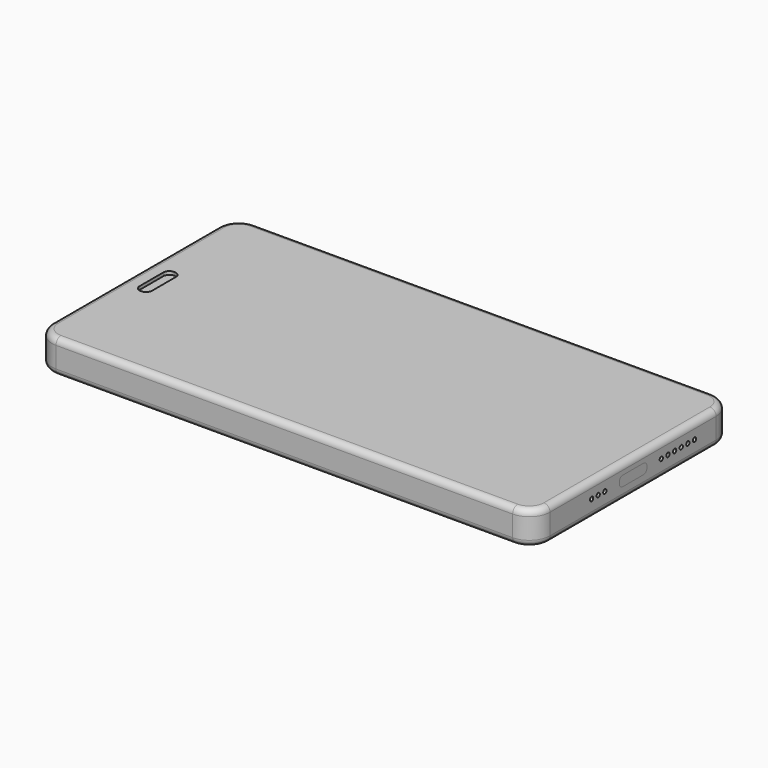
from build123d import *

# Parameters (mm, degrees)
BOX005_W          = 105
BOX005_H          = 57
BOX005_DEPTH      = 1
BOX007_W          = 3
BOX007_H          = 10
BOX007_DEPTH      = 10
FILLET006_R       = 1.4
BOX002_W          = 117
BOX002_H          = 57
BOX002_DEPTH      = 1
FILLET003_R       = 3.5
BOX010_W          = 3
BOX010_H          = 10
BOX010_DEPTH      = 0.2
FILLET008_R       = 1.4
BOX015_W          = 65
BOX015_H          = 53
BOX015_DEPTH      = 4
CYLINDER009_R     = 2.5
CYLINDER009_DEPTH = 1
BOX012_W          = 8
BOX012_H          = 8
BOX012_DEPTH      = 4.2
CYLINDER010_R     = 2.3
CYLINDER010_DEPTH = 1
BOX036_W          = 10
BOX036_H          = 20
BOX036_DEPTH      = 3.7
BOX038_W          = 11.5
BOX038_H          = 20
BOX038_DEPTH      = 3.7
CYLINDER008_R     = 1
CYLINDER008_DEPTH = 1
CYLINDER007_R     = 2.5
CYLINDER007_DEPTH = 1
BOX043_W          = 10
BOX043_H          = 57
BOX043_DEPTH      = 0.8
FILLET026_R       = 3.5
BOX042_W          = 10
BOX042_H          = 57
BOX042_DEPTH      = 0.8
FILLET025_R       = 3.5
BOX049_W          = 20
BOX049_H          = 4
BOX049_DEPTH      = 2.5
FILLET030_R       = 1.2
BOX048_W          = 10
BOX048_H          = 4
BOX048_DEPTH      = 2.5
FILLET029_R       = 1.2
CYLINDER021_R     = 2.5
CYLINDER021_DEPTH = 1
BOX051_W          = 21
BOX051_H          = 5
BOX051_DEPTH      = 0.2
BOX052_W          = 5
BOX052_H          = 11
BOX052_DEPTH      = 0.2
BOX050_W          = 15
BOX050_H          = 5
BOX050_DEPTH      = 0.2
FILLET031_R       = 1.5
BOX055_W          = 1
BOX055_H          = 2
BOX055_DEPTH      = 1.5
CHAMFER_SIZE      = 0.4
BOX054_W          = 10
BOX054_H          = 20
BOX054_DEPTH      = 3.7
BOX053_W          = 10
BOX053_H          = 9
BOX053_DEPTH      = 10
BOX037_W          = 14
BOX037_H          = 20
BOX037_DEPTH      = 3.7
CYLINDER020_R     = 0.25
CYLINDER020_DEPTH = 10
BOX035_W          = 8.65
BOX035_H          = 8.3
BOX035_DEPTH      = 2.45
FILLET022_R       = 1
BOX016_W          = 14
BOX016_H          = 57
BOX016_DEPTH      = 4
FILLET010_R       = 3.5
BOX059_W          = 8.65
BOX059_H          = 8.3
BOX059_DEPTH      = 2.45
FILLET034_R       = 1
BOX058_W          = 8.65
BOX058_H          = 8.3
BOX058_DEPTH      = 2.45
FILLET033_R       = 1
BOX057_W          = 13
BOX057_H          = 54
BOX057_DEPTH      = 0.2
FILLET032_R       = 2
BOX056_W          = 81
BOX056_H          = 13
BOX056_DEPTH      = 0.2
BOX060_W          = 81
BOX060_H          = 13
BOX060_DEPTH      = 0.2
BOX062_W          = 10
BOX062_H          = 56.5
BOX062_DEPTH      = 0.2
FILLET035_R       = 2.5
BOX063_W          = 5
BOX063_H          = 5
BOX063_DEPTH      = 10
BOX014_W          = 9
BOX014_H          = 9
BOX014_DEPTH      = 4.2
BOX013_W          = 35
BOX013_H          = 55.5
BOX013_DEPTH      = 3
FILLET009_R       = 3
CYLINDER022_R     = 1.5
CYLINDER022_DEPTH = 3
BOX064_W          = 5
BOX064_H          = 5
BOX064_DEPTH      = 4.5
BOX065_W          = 5
BOX065_H          = 7
BOX065_DEPTH      = 0.2
BOX066_W          = 8
BOX066_H          = 9
BOX066_DEPTH      = 0.2
BOX067_W          = 2
BOX067_H          = 1
BOX067_DEPTH      = 1
BOX068_W          = 2
BOX068_H          = 1
BOX068_DEPTH      = 1
BOX069_W          = 2
BOX069_H          = 1
BOX069_DEPTH      = 1
CYLINDER028_R     = 0.5
CYLINDER028_DEPTH = 10
CYLINDER029_R     = 0.5
CYLINDER029_DEPTH = 10
CYLINDER030_R     = 0.5
CYLINDER030_DEPTH = 10
CYLINDER031_R     = 0.5
CYLINDER031_DEPTH = 10
CYLINDER032_R     = 0.5
CYLINDER032_DEPTH = 10
BOX071_W          = 5
BOX071_H          = 9
BOX071_DEPTH      = 1.5
CYLINDER023_R     = 0.5
CYLINDER023_DEPTH = 10
CYLINDER024_R     = 0.5
CYLINDER024_DEPTH = 10
CYLINDER025_R     = 0.5
CYLINDER025_DEPTH = 10
CYLINDER026_R     = 0.5
CYLINDER026_DEPTH = 10
CYLINDER027_R     = 0.5
CYLINDER027_DEPTH = 10
BOX070_W          = 5
BOX070_H          = 9
BOX070_DEPTH      = 1.5
BOX011_W          = 2.5
BOX011_H          = 8
BOX011_DEPTH      = 10
CYLINDER003_R     = 0.5
CYLINDER003_DEPTH = 10
CYLINDER004_R     = 1
CYLINDER004_DEPTH = 10
CYLINDER_R        = 2
CYLINDER_DEPTH    = 10
BOX061_W          = 10
BOX061_H          = 18
BOX061_DEPTH      = 2.2
BOX009_W          = 5
BOX009_H          = 2
BOX009_DEPTH      = 10
FILLET007_R       = 0.9
BOX003_W          = 8
BOX003_H          = 57
BOX003_DEPTH      = 1
BOX004_W          = 4
BOX004_H          = 57
BOX004_DEPTH      = 1
FILLET004_R       = 3.5
BOX006_W          = 117
BOX006_H          = 57
BOX006_DEPTH      = 0.5
FILLET005_R       = 3.5
CYLINDER034_R     = 1.75
CYLINDER034_DEPTH = 10
BOX047_W          = 20
BOX047_H          = 4
BOX047_DEPTH      = 2.5
FILLET028_R       = 1.2
BOX046_W          = 10
BOX046_H          = 4
BOX046_DEPTH      = 2.5
FILLET027_R       = 1.2
BOX044_W          = 8
BOX044_H          = 36
BOX044_DEPTH      = 10
BOX045_W          = 8
BOX045_H          = 41
BOX045_DEPTH      = 10
BOX041_W          = 10
BOX041_H          = 57
BOX041_DEPTH      = 0.8
FILLET024_R       = 3.5
BOX039_W          = 10
BOX039_H          = 57
BOX039_DEPTH      = 0.8
FILLET023_R       = 3.5
CYLINDER011_R     = 0.5
CYLINDER011_DEPTH = 10
CYLINDER015_R     = 0.5
CYLINDER015_DEPTH = 10
CYLINDER013_R     = 0.5
CYLINDER013_DEPTH = 10
CYLINDER017_R     = 0.5
CYLINDER017_DEPTH = 10
CYLINDER019_R     = 0.5
CYLINDER019_DEPTH = 10
CYLINDER018_R     = 0.5
CYLINDER018_DEPTH = 10
CYLINDER014_R     = 0.5
CYLINDER014_DEPTH = 10
CYLINDER016_R     = 0.5
CYLINDER016_DEPTH = 10
CYLINDER012_R     = 0.5
CYLINDER012_DEPTH = 10
CYLINDER006_R     = 1
CYLINDER006_DEPTH = 10
CYLINDER005_R     = 2.5
CYLINDER005_DEPTH = 10
BOX001_W          = 117
BOX001_H          = 57
BOX001_DEPTH      = 8
FILLET002_R       = 3.5
BOX_W             = 120
BOX_H             = 60
BOX_DEPTH         = 8
FILLET_R          = 5
FILLET001_R       = 1.5


with BuildPart() as screen:
    # Box005 → Box005 (new body)
    with BuildSketch(Plane(origin=(9.5, 1.5, 6), x_dir=(1, 0, 0), z_dir=(0, 0, 1))):
        with Locations((52.5, 28.5)):
            Rectangle(BOX005_W, BOX005_H)
    extrude(amount=BOX005_DEPTH)


with BuildPart() as fillet006:
    # Box007 → Box007 (new body)
    with BuildSketch(Plane(origin=(4, 25, 0), x_dir=(1, 0, 0), z_dir=(0, 0, 1))):
        with Locations((1.5, 5)):
            Rectangle(BOX007_W, BOX007_H)
    extrude(amount=BOX007_DEPTH)

    # Fillet006
    fillet006_edges = [fillet006.edges().sort_by_distance(p)[0] for p in [
        (4, 25, 5),
        (4, 35, 5),
        (7, 25, 5),
        (7, 35, 5),
    ]]
    fillet(fillet006_edges, radius=FILLET006_R)


with BuildPart() as touchscreen:
    # Box002 → Box002 (new body)
    with BuildSketch(Plane(origin=(1.5, 1.5, 0), x_dir=(1, 0, 0), z_dir=(0, 0, 1))):
        with Locations((58.5, 28.5)):
            Rectangle(BOX002_W, BOX002_H)
    extrude(amount=BOX002_DEPTH)

    # Fillet003
    fillet003_edges = [touchscreen.edges().sort_by_distance(p)[0] for p in [
        (1.5, 1.5, 0.5),
        (1.5, 58.5, 0.5),
        (118.5, 1.5, 0.5),
        (118.5, 58.5, 0.5),
    ]]
    fillet(fillet003_edges, radius=FILLET003_R)


with BuildPart() as touchscreen_1:
    # Fillet003 placement: moved
    add(touchscreen.part.moved(Location((0, 0, 7))))

    # Cut001: cut Fillet006
    add(fillet006.part, mode=Mode.SUBTRACT)


with BuildPart() as speaker_bezel:
    # Box010 → Box010 (new body)
    with BuildSketch(Plane(origin=(4, 25, 0), x_dir=(1, 0, 0), z_dir=(0, 0, 1))):
        with Locations((1.5, 5)):
            Rectangle(BOX010_W, BOX010_H)
    extrude(amount=BOX010_DEPTH)

    # Fillet008
    fillet008_edges = [speaker_bezel.edges().sort_by_distance(p)[0] for p in [
        (4, 25, 0.1),
        (4, 35, 0.1),
        (7, 25, 0.1),
        (7, 35, 0.1),
    ]]
    fillet(fillet008_edges, radius=FILLET008_R)


with BuildPart() as speaker_bezel_1:
    # Fillet008 placement: moved
    add(speaker_bezel.part.moved(Location((0, 0, 7))))


with BuildPart() as battery:
    # Box015 → Box015 (new body)
    with BuildSketch(Plane(origin=(39, 2, 1.2), x_dir=(1, 0, 0), z_dir=(0, 0, 1))):
        with Locations((32.5, 26.5)):
            Rectangle(BOX015_W, BOX015_H)
    extrude(amount=BOX015_DEPTH)


with BuildPart() as camera_lent001:
    # Cylinder009 → Cylinder009 (new body)
    with BuildSketch(Plane(origin=(6.5, 53, 1), x_dir=(1, 0, 0), z_dir=(0, 0, 1))):
        Circle(CYLINDER009_R)
    extrude(amount=CYLINDER009_DEPTH)


with BuildPart() as maincamera:
    # Box012 → Box012 (new body)
    with BuildSketch(Plane(origin=(2.6, 49, 1.2), x_dir=(1, 0, 0), z_dir=(0, 0, 1))):
        with Locations((4, 4)):
            Rectangle(BOX012_W, BOX012_H)
    extrude(amount=BOX012_DEPTH)

    # Cut010: cut Camera lent001
    add(camera_lent001.part, mode=Mode.SUBTRACT)


with BuildPart() as camera_lent002:
    # Cylinder010 → Cylinder010 (new body)
    with BuildSketch(Plane(origin=(6.5, 53, 1), x_dir=(1, 0, 0), z_dir=(0, 0, 1))):
        Circle(CYLINDER010_R)
    extrude(amount=CYLINDER010_DEPTH)


with BuildPart() as esfera001:
    # Sphere002 → Sphere002 (revolve)
    with BuildSketch(Plane(origin=(6.5, 53, 1), x_dir=(1, 0, 0), z_dir=(0, -1, 0))):
        with BuildLine():
            ThreePointArc((0, -0.5), (0.5, 0), (0, 0.5))
            Line((0, 0.5), (0, -0.5))
        make_face()
    revolve(axis=Axis((6.5, 53, 1), (0, 0, 1)))


with BuildPart() as obj1:
    # Box036 → Box036 (new body)
    with BuildSketch(Plane(origin=(106, 3, 1.5), x_dir=(1, 0, 0), z_dir=(0, 0, 1))):
        with Locations((5, 10)):
            Rectangle(BOX036_W, BOX036_H)
    extrude(amount=BOX036_DEPTH)


with BuildPart() as speaker:
    # Box038 → Box038 (new body)
    with BuildSketch(Plane(origin=(107, 35, 1.5), x_dir=(1, 0, 0), z_dir=(0, 0, 1))):
        with Locations((5.75, 10)):
            Rectangle(BOX038_W, BOX038_H)
    extrude(amount=BOX038_DEPTH)


with BuildPart() as flash_lens:
    # Cylinder008 → Cylinder008 (new body)
    with BuildSketch(Plane(origin=(6.5, 45.5, 0), x_dir=(1, 0, 0), z_dir=(0, 0, 1))):
        Circle(CYLINDER008_R)
    extrude(amount=CYLINDER008_DEPTH)


with BuildPart() as esfera:
    # Sphere001 → Sphere001 (revolve)
    with BuildSketch(Plane(origin=(6.5, 53, 1), x_dir=(1, 0, 0), z_dir=(0, -1, 0))):
        with BuildLine():
            ThreePointArc((0, -0.5), (0.5, 0), (0, 0.5))
            Line((0, 0.5), (0, -0.5))
        make_face()
    revolve(axis=Axis((6.5, 53, 1), (0, 0, 1)))


with BuildPart() as cut011:
    # Cylinder007 → Cylinder007 (new body)
    with BuildSketch(Plane(origin=(6.5, 53, 0), x_dir=(1, 0, 0), z_dir=(0, 0, 1))):
        Circle(CYLINDER007_R)
    extrude(amount=CYLINDER007_DEPTH)

    # Cut011: cut Esfera
    add(esfera.part, mode=Mode.SUBTRACT)


with BuildPart() as fillet026:
    # Box043 → Box043 (new body)
    with BuildSketch(Plane(origin=(108.5, 1.5, 0), x_dir=(1, 0, 0), z_dir=(0, 0, 1))):
        with Locations((5, 28.5)):
            Rectangle(BOX043_W, BOX043_H)
    extrude(amount=BOX043_DEPTH)

    # Fillet026
    fillet026_edges = [fillet026.edges().sort_by_distance(p)[0] for p in [
        (118.5, 1.5, 0.4),
        (118.5, 58.5, 0.4),
    ]]
    fillet(fillet026_edges, radius=FILLET026_R)


with BuildPart() as antenna:
    # Box042 → Box042 (new body)
    with BuildSketch(Plane(origin=(1.5, 1.5, 0), x_dir=(1, 0, 0), z_dir=(0, 0, 1))):
        with Locations((5, 28.5)):
            Rectangle(BOX042_W, BOX042_H)
    extrude(amount=BOX042_DEPTH)

    # Fillet025
    fillet025_edges = [antenna.edges().sort_by_distance(p)[0] for p in [
        (1.5, 1.5, 0.4),
        (1.5, 58.5, 0.4),
    ]]
    fillet(fillet025_edges, radius=FILLET025_R)

    # Fusion009: union Fillet026
    add(fillet026.part)

    # Cut017: cut Cut011
    add(cut011.part, mode=Mode.SUBTRACT)

    # Cut018: cut Flash lens
    add(flash_lens.part, mode=Mode.SUBTRACT)


with BuildPart() as volumebutton:
    # Box049 → Box049 (new body)
    with BuildSketch(Plane(origin=(68, 57, 2.75), x_dir=(1, 0, 0), z_dir=(0, 0, 1))):
        with Locations((10, 2)):
            Rectangle(BOX049_W, BOX049_H)
    extrude(amount=BOX049_DEPTH)

    # Fillet030
    fillet030_edges = [volumebutton.edges().sort_by_distance(p)[0] for p in [
        (68, 59, 5.25),
        (68, 59, 2.75),
        (88, 59, 5.25),
        (88, 59, 2.75),
    ]]
    fillet(fillet030_edges, radius=FILLET030_R)


with BuildPart() as buttons:
    # Box048 → Box048 (new body)
    with BuildSketch(Plane(origin=(55, 57, 2.75), x_dir=(1, 0, 0), z_dir=(0, 0, 1))):
        with Locations((5, 2)):
            Rectangle(BOX048_W, BOX048_H)
    extrude(amount=BOX048_DEPTH)

    # Fillet029
    fillet029_edges = [buttons.edges().sort_by_distance(p)[0] for p in [
        (55, 59, 5.25),
        (55, 59, 2.75),
        (65, 59, 5.25),
        (65, 59, 2.75),
    ]]
    fillet(fillet029_edges, radius=FILLET029_R)

    # Fusion012: union VolumeButton
    add(volumebutton.part)


with BuildPart() as esfera002:
    # Sphere003 → Sphere003 (revolve)
    with BuildSketch(Plane(origin=(6.5, 53, 1), x_dir=(1, 0, 0), z_dir=(0, -1, 0))):
        with BuildLine():
            ThreePointArc((0, -0.5), (0.5, 0), (0, 0.5))
            Line((0, 0.5), (0, -0.5))
        make_face()
    revolve(axis=Axis((6.5, 53, 1), (0, 0, 1)))


with BuildPart() as cut021:
    # Cylinder021 → Cylinder021 (new body)
    with BuildSketch(Plane(origin=(6.5, 53, 0), x_dir=(1, 0, 0), z_dir=(0, 0, 1))):
        Circle(CYLINDER021_R)
    extrude(amount=CYLINDER021_DEPTH)

    # Cut021: cut Esfera002
    add(esfera002.part, mode=Mode.SUBTRACT)


with BuildPart() as cubo041:
    # Box051 → Box051 (new body)
    with BuildSketch(Plane(origin=(33, 3, 5.1), x_dir=(1, 0, 0), z_dir=(0, 0, 1))):
        with Locations((10.5, 2.5)):
            Rectangle(BOX051_W, BOX051_H)
    extrude(amount=BOX051_DEPTH)


with BuildPart() as cubo042:
    # Box052 → Box052 (new body)
    with BuildSketch(Plane(origin=(49, 3, 5.1), x_dir=(1, 0, 0), z_dir=(0, 0, 1))):
        with Locations((2.5, 5.5)):
            Rectangle(BOX052_W, BOX052_H)
    extrude(amount=BOX052_DEPTH)


with BuildPart() as battery_flex:
    # Box050 → Box050 (new body)
    with BuildSketch(Plane(origin=(39, 12, 5.1), x_dir=(1, 0, 0), z_dir=(0, 0, 1))):
        with Locations((7.5, 2.5)):
            Rectangle(BOX050_W, BOX050_H)
    extrude(amount=BOX050_DEPTH)

    # Fusion013: union Cubo041, Cubo042
    add(cubo041.part)
    add(cubo042.part)

    # Fillet031
    fillet031_edges = [battery_flex.edges().sort_by_distance(p)[0] for p in [
        (49, 12, 5.2),
        (54, 17, 5.2),
        (49, 8, 5.2),
        (54, 3, 5.2),
    ]]
    fillet(fillet031_edges, radius=FILLET031_R)


with BuildPart() as chamfer_body:
    # Box055 → Box055 (new body)
    with BuildSketch(Plane(origin=(116.8, 18, 4), x_dir=(1, 0, 0), z_dir=(0, 0, 1))):
        with Locations((0.5, 1)):
            Rectangle(BOX055_W, BOX055_H)
    extrude(amount=BOX055_DEPTH)

    # Chamfer
    chamfer_edges = [chamfer_body.edges().sort_by_distance(p)[0] for p in [
        (116.8, 19, 4),
        (117.8, 19, 4),
        (117.3, 18, 4),
        (117.3, 20, 4),
    ]]
    chamfer(chamfer_edges, length=CHAMFER_SIZE)


with BuildPart() as obj2:
    # Box054 → Box054 (new body)
    with BuildSketch(Plane(origin=(106, 3, 1.5), x_dir=(1, 0, 0), z_dir=(0, 0, 1))):
        with Locations((5, 10)):
            Rectangle(BOX054_W, BOX054_H)
    extrude(amount=BOX054_DEPTH)


with BuildPart() as cubo043:
    # Box053 → Box053 (new body)
    with BuildSketch(Plane(origin=(110, 25.5, 4), x_dir=(1, 0, 0), z_dir=(0, 0, 1))):
        with Locations((5, 4.5)):
            Rectangle(BOX053_W, BOX053_H)
    extrude(amount=BOX053_DEPTH)


with BuildPart() as speaker_hole:
    # Box037 → Box037 (new body)
    with BuildSketch(Plane(origin=(107, 35, 1.5), x_dir=(1, 0, 0), z_dir=(0, 0, 1))):
        with Locations((7, 10)):
            Rectangle(BOX037_W, BOX037_H)
    extrude(amount=BOX037_DEPTH)


with BuildPart() as cilindro013:
    # Cylinder020 → Cylinder020 (new body)
    with BuildSketch(Plane(origin=(113, 19.5, 4.2), x_dir=(0, 1, 0), z_dir=(1, 0, 0))):
        Circle(CYLINDER020_R)
    extrude(amount=CYLINDER020_DEPTH)


with BuildPart() as usb_c:
    # Box035 → Box035 (new body)
    with BuildSketch(Plane.XY):
        with Locations((4.325, 4.15)):
            Rectangle(BOX035_W, BOX035_H)
    extrude(amount=BOX035_DEPTH)

    # Fillet022
    fillet022_edges = [usb_c.edges().sort_by_distance(p)[0] for p in [
        (4.325, 0, 0),
        (4.325, 0, 2.45),
        (4.325, 8.3, 0),
        (4.325, 8.3, 2.45),
    ]]
    fillet(fillet022_edges, radius=FILLET022_R)


with BuildPart() as usb_c_1:
    # Fillet022 placement: moved
    add(usb_c.part.moved(Location((111.35, 25.85, 3))))


with BuildPart() as cut025:
    # Box016 → Box016 (new body)
    with BuildSketch(Plane(origin=(104.5, 1.5, 1.2), x_dir=(1, 0, 0), z_dir=(0, 0, 1))):
        with Locations((7, 28.5)):
            Rectangle(BOX016_W, BOX016_H)
    extrude(amount=BOX016_DEPTH)

    # Fillet010
    fillet010_edges = [cut025.edges().sort_by_distance(p)[0] for p in [
        (118.5, 1.5, 3.2),
        (118.5, 58.5, 3.2),
    ]]
    fillet(fillet010_edges, radius=FILLET010_R)

    # Cut013: cut USB-C
    add(usb_c_1.part, mode=Mode.SUBTRACT)

    # Cut014: cut Cilindro013
    add(cilindro013.part, mode=Mode.SUBTRACT)

    # Cut015: cut Speaker hole
    add(speaker_hole.part, mode=Mode.SUBTRACT)

    # Cut022: cut Cubo043
    add(cubo043.part, mode=Mode.SUBTRACT)

    # Cut023: cut obj2
    add(obj2.part, mode=Mode.SUBTRACT)

    # Cut024: cut Chamfer body
    add(chamfer_body.part, mode=Mode.SUBTRACT)


with BuildPart() as usb_c002:
    # Box059 → Box059 (new body)
    with BuildSketch(Plane.XY):
        with Locations((4.325, 4.15)):
            Rectangle(BOX059_W, BOX059_H)
    extrude(amount=BOX059_DEPTH)

    # Fillet034
    fillet034_edges = [usb_c002.edges().sort_by_distance(p)[0] for p in [
        (4.325, 0, 0),
        (4.325, 0, 2.45),
        (4.325, 8.3, 0),
        (4.325, 8.3, 2.45),
    ]]
    fillet(fillet034_edges, radius=FILLET034_R)


with BuildPart() as usb_c002_1:
    # Fillet034 placement: moved
    add(usb_c002.part.moved(Location((111.35, 25.85, 3))))


with BuildPart() as usb_c001:
    # Box058 → Box058 (new body)
    with BuildSketch(Plane.XY):
        with Locations((4.325, 4.15)):
            Rectangle(BOX058_W, BOX058_H)
    extrude(amount=BOX058_DEPTH)

    # Fillet033
    fillet033_edges = [usb_c001.edges().sort_by_distance(p)[0] for p in [
        (4.325, 0, 0),
        (4.325, 0, 2.45),
        (4.325, 8.3, 0),
        (4.325, 8.3, 2.45),
    ]]
    fillet(fillet033_edges, radius=FILLET033_R)


with BuildPart() as usb_c001_1:
    # Fillet033 placement: moved
    add(usb_c001.part.moved(Location((111.35, 25.85, 3))))


with BuildPart() as fillet032:
    # Box057 → Box057 (new body)
    with BuildSketch(Plane(origin=(105, 4, 5.1), x_dir=(1, 0, 0), z_dir=(0, 0, 1))):
        with Locations((6.5, 27)):
            Rectangle(BOX057_W, BOX057_H)
    extrude(amount=BOX057_DEPTH)

    # Fillet032
    fillet032_edges = [fillet032.edges().sort_by_distance(p)[0] for p in [
        (118, 58, 5.2),
    ]]
    fillet(fillet032_edges, radius=FILLET032_R)


with BuildPart() as obj3:
    # Box056 → Box056 (new body)
    with BuildSketch(Plane(origin=(33, 36, 5.1), x_dir=(1, 0, 0), z_dir=(0, 0, 1))):
        with Locations((40.5, 6.5)):
            Rectangle(BOX056_W, BOX056_H)
    extrude(amount=BOX056_DEPTH)

    # Fusion014: union Fillet032
    add(fillet032.part)

    # Cut025: cut USB-C001
    add(usb_c001_1.part, mode=Mode.SUBTRACT)


with BuildPart() as cubo049:
    # Box060 → Box060 (new body)
    with BuildSketch(Plane(origin=(33, 21, 6.1), x_dir=(1, 0, 0), z_dir=(0, 0, 1))):
        with Locations((40.5, 6.5)):
            Rectangle(BOX060_W, BOX060_H)
    extrude(amount=BOX060_DEPTH)


with BuildPart() as screen_flex:
    # Box062 → Box062 (new body)
    with BuildSketch(Plane(origin=(104, 1.7, 6.1), x_dir=(1, 0, 0), z_dir=(0, 0, 1))):
        with Locations((5, 28.25)):
            Rectangle(BOX062_W, BOX062_H)
    extrude(amount=BOX062_DEPTH)

    # Fusion015: union Cubo049
    add(cubo049.part)

    # Fillet035
    fillet035_edges = [screen_flex.edges().sort_by_distance(p)[0] for p in [
        (104, 21, 6.2),
        (104, 34, 6.2),
    ]]
    fillet(fillet035_edges, radius=FILLET035_R)


with BuildPart() as cubo052:
    # Box063 → Box063 (new body)
    with BuildSketch(Plane(origin=(3, 17.5, -3), x_dir=(1, 0, 0), z_dir=(0, 0, 1))):
        with Locations((2.5, 2.5)):
            Rectangle(BOX063_W, BOX063_H)
    extrude(amount=BOX063_DEPTH)


with BuildPart() as back_camera001:
    # Box014 → Box014 (new body)
    with BuildSketch(Plane(origin=(2.1, 48.5, 1.6), x_dir=(1, 0, 0), z_dir=(0, 0, 1))):
        with Locations((4.5, 4.5)):
            Rectangle(BOX014_W, BOX014_H)
    extrude(amount=BOX014_DEPTH)


with BuildPart() as cut028:
    # Box013 → Box013 (new body)
    with BuildSketch(Plane(origin=(2.1, 2, 2.5), x_dir=(1, 0, 0), z_dir=(0, 0, 1))):
        with Locations((17.5, 27.75)):
            Rectangle(BOX013_W, BOX013_H)
    extrude(amount=BOX013_DEPTH)

    # Fillet009
    fillet009_edges = [cut028.edges().sort_by_distance(p)[0] for p in [
        (2.1, 2, 4),
    ]]
    fillet(fillet009_edges, radius=FILLET009_R)

    # Cut009: cut Back Camera001
    add(back_camera001.part, mode=Mode.SUBTRACT)


with BuildPart() as cut028_1:
    # Cut009 placement: moved
    add(cut028.part.moved(Location((0, 0, -0.5))))

    # Cut028: cut Cubo052
    add(cubo052.part, mode=Mode.SUBTRACT)


with BuildPart() as cilindro014:
    # Cylinder022 → Cylinder022 (new body)
    with BuildSketch(Plane(origin=(5.5, 20, 3.5), x_dir=(1, 0, 0), z_dir=(0, 0, 1))):
        Circle(CYLINDER022_R)
    extrude(amount=CYLINDER022_DEPTH)


with BuildPart() as esfera003:
    # Sphere → Sphere (revolve)
    with BuildSketch(Plane(origin=(5.5, 20, 6), x_dir=(1, 0, 0), z_dir=(0, -1, 0))):
        with BuildLine():
            ThreePointArc((0, -1), (1, 0), (0, 1))
            Line((0, 1), (0, -1))
        make_face()
    revolve(axis=Axis((5.5, 20, 6), (0, 0, 1)))


with BuildPart() as front_facing_camera:
    # Box064 → Box064 (new body)
    with BuildSketch(Plane(origin=(3, 17.5, 1.5), x_dir=(1, 0, 0), z_dir=(0, 0, 1))):
        with Locations((2.5, 2.5)):
            Rectangle(BOX064_W, BOX064_H)
    extrude(amount=BOX064_DEPTH)

    # Fusion016: union Cilindro014, Esfera003
    add(cilindro014.part)
    add(esfera003.part)


with BuildPart() as front_facing_camera_flex:
    # Box065 → Box065 (new body)
    with BuildSketch(Plane(origin=(3, 10.5, 1.5), x_dir=(1, 0, 0), z_dir=(0, 0, 1))):
        with Locations((2.5, 3.5)):
            Rectangle(BOX065_W, BOX065_H)
    extrude(amount=BOX065_DEPTH)


with BuildPart() as obj4:
    # Box066 → Box066 (new body)
    with BuildSketch(Plane(origin=(2.6, 40, 5.2), x_dir=(1, 0, 0), z_dir=(0, 0, 1))):
        with Locations((4, 4.5)):
            Rectangle(BOX066_W, BOX066_H)
    extrude(amount=BOX066_DEPTH)


with BuildPart() as notificationled:
    # Box067 → Box067 (new body)
    with BuildSketch(Plane(origin=(4.5, 23, 5), x_dir=(1, 0, 0), z_dir=(0, 0, 1))):
        with Locations((1, 0.5)):
            Rectangle(BOX067_W, BOX067_H)
    extrude(amount=BOX067_DEPTH)


with BuildPart() as obj5:
    # Box068 → Box068 (new body)
    with BuildSketch(Plane(origin=(4.5, 14.5, 5), x_dir=(1, 0, 0), z_dir=(0, 0, 1))):
        with Locations((1, 0.5)):
            Rectangle(BOX068_W, BOX068_H)
    extrude(amount=BOX068_DEPTH)


with BuildPart() as obj6:
    # Box069 → Box069 (new body)
    with BuildSketch(Plane(origin=(4.5, 15.5, 5), x_dir=(1, 0, 0), z_dir=(0, 0, 1))):
        with Locations((1, 0.5)):
            Rectangle(BOX069_W, BOX069_H)
    extrude(amount=BOX069_DEPTH)


with BuildPart() as cilindro020:
    # Cylinder028 → Cylinder028 (new body)
    with BuildSketch(Plane(origin=(5.5, 27, 0), x_dir=(1, 0, 0), z_dir=(0, 0, 1))):
        Circle(CYLINDER028_R)
    extrude(amount=CYLINDER028_DEPTH)


with BuildPart() as cilindro021:
    # Cylinder029 → Cylinder029 (new body)
    with BuildSketch(Plane(origin=(5.5, 28.5, 0), x_dir=(1, 0, 0), z_dir=(0, 0, 1))):
        Circle(CYLINDER029_R)
    extrude(amount=CYLINDER029_DEPTH)


with BuildPart() as cilindro022:
    # Cylinder030 → Cylinder030 (new body)
    with BuildSketch(Plane(origin=(5.5, 30, 0), x_dir=(1, 0, 0), z_dir=(0, 0, 1))):
        Circle(CYLINDER030_R)
    extrude(amount=CYLINDER030_DEPTH)


with BuildPart() as cilindro023:
    # Cylinder031 → Cylinder031 (new body)
    with BuildSketch(Plane(origin=(5.5, 31.5, 0), x_dir=(1, 0, 0), z_dir=(0, 0, 1))):
        Circle(CYLINDER031_R)
    extrude(amount=CYLINDER031_DEPTH)


with BuildPart() as fusion019:
    # Cylinder032 → Cylinder032 (new body)
    with BuildSketch(Plane(origin=(5.5, 33, 0), x_dir=(1, 0, 0), z_dir=(0, 0, 1))):
        Circle(CYLINDER032_R)
    extrude(amount=CYLINDER032_DEPTH)

    # Fusion019: union Cilindro020, Cilindro021, Cilindro022, Cilindro023
    add(cilindro020.part)
    add(cilindro021.part)
    add(cilindro022.part)
    add(cilindro023.part)


with BuildPart() as fusion019_1:
    # Fusion019 placement: moved
    add(fusion019.part.moved(Location((0, 0, 6))))


with BuildPart() as topspeaker:
    # Box071 → Box071 (new body)
    with BuildSketch(Plane(origin=(2.5, 25.5, 5), x_dir=(1, 0, 0), z_dir=(0, 0, 1))):
        with Locations((2.5, 4.5)):
            Rectangle(BOX071_W, BOX071_H)
    extrude(amount=BOX071_DEPTH)

    # Cut032: cut Fusion019
    add(fusion019_1.part, mode=Mode.SUBTRACT)


with BuildPart() as cilindro015:
    # Cylinder023 → Cylinder023 (new body)
    with BuildSketch(Plane(origin=(5.5, 27, 0), x_dir=(1, 0, 0), z_dir=(0, 0, 1))):
        Circle(CYLINDER023_R)
    extrude(amount=CYLINDER023_DEPTH)


with BuildPart() as cilindro016:
    # Cylinder024 → Cylinder024 (new body)
    with BuildSketch(Plane(origin=(5.5, 28.5, 0), x_dir=(1, 0, 0), z_dir=(0, 0, 1))):
        Circle(CYLINDER024_R)
    extrude(amount=CYLINDER024_DEPTH)


with BuildPart() as cilindro017:
    # Cylinder025 → Cylinder025 (new body)
    with BuildSketch(Plane(origin=(5.5, 30, 0), x_dir=(1, 0, 0), z_dir=(0, 0, 1))):
        Circle(CYLINDER025_R)
    extrude(amount=CYLINDER025_DEPTH)


with BuildPart() as cilindro018:
    # Cylinder026 → Cylinder026 (new body)
    with BuildSketch(Plane(origin=(5.5, 31.5, 0), x_dir=(1, 0, 0), z_dir=(0, 0, 1))):
        Circle(CYLINDER026_R)
    extrude(amount=CYLINDER026_DEPTH)


with BuildPart() as fusion018:
    # Cylinder027 → Cylinder027 (new body)
    with BuildSketch(Plane(origin=(5.5, 33, 0), x_dir=(1, 0, 0), z_dir=(0, 0, 1))):
        Circle(CYLINDER027_R)
    extrude(amount=CYLINDER027_DEPTH)

    # Fusion018: union Cilindro015, Cilindro016, Cilindro017, Cilindro018
    add(cilindro015.part)
    add(cilindro016.part)
    add(cilindro017.part)
    add(cilindro018.part)


with BuildPart() as fusion018_1:
    # Fusion018 placement: moved
    add(fusion018.part.moved(Location((0, 0, 6))))


with BuildPart() as cut033:
    # Box070 → Box070 (new body)
    with BuildSketch(Plane(origin=(2.5, 25.5, 5), x_dir=(1, 0, 0), z_dir=(0, 0, 1))):
        with Locations((2.5, 4.5)):
            Rectangle(BOX070_W, BOX070_H)
    extrude(amount=BOX070_DEPTH)

    # Cut031: cut Fusion018
    add(fusion018_1.part, mode=Mode.SUBTRACT)


with BuildPart() as cubo011:
    # Box011 → Box011 (new body)
    with BuildSketch(Plane(origin=(4.2, 26, 0), x_dir=(1, 0, 0), z_dir=(0, 0, 1))):
        with Locations((1.25, 4)):
            Rectangle(BOX011_W, BOX011_H)
    extrude(amount=BOX011_DEPTH)


with BuildPart() as cilindro002:
    # Cylinder003 → Cylinder003 (new body)
    with BuildSketch(Plane(origin=(5.5, 23.5, 0), x_dir=(1, 0, 0), z_dir=(0, 0, 1))):
        Circle(CYLINDER003_R)
    extrude(amount=CYLINDER003_DEPTH)


with BuildPart() as cilindro003:
    # Cylinder004 → Cylinder004 (new body)
    with BuildSketch(Plane(origin=(5.5, 15.5, 0), x_dir=(1, 0, 0), z_dir=(0, 0, 1))):
        Circle(CYLINDER004_R)
    extrude(amount=CYLINDER004_DEPTH)


with BuildPart() as fusion017:
    # Fusion017 base: copy of Cilindro003
    add(cilindro003.part)

    # Fusion017: union Cilindro002
    add(cilindro002.part)


with BuildPart() as cilindro:
    # Cylinder → Cylinder (new body)
    with BuildSketch(Plane(origin=(5.5, 20, 0), x_dir=(1, 0, 0), z_dir=(0, 0, 1))):
        Circle(CYLINDER_R)
    extrude(amount=CYLINDER_DEPTH)


with BuildPart() as cubo050:
    # Box061 → Box061 (new body)
    with BuildSketch(Plane(origin=(30, 18.5, 5.1), x_dir=(1, 0, 0), z_dir=(0, 0, 1))):
        with Locations((5, 9)):
            Rectangle(BOX061_W, BOX061_H)
    extrude(amount=BOX061_DEPTH)


with BuildPart() as fillet007:
    # Box009 → Box009 (new body)
    with BuildSketch(Plane(origin=(3, 37, 0), x_dir=(1, 0, 0), z_dir=(0, 0, 1))):
        with Locations((2.5, 1)):
            Rectangle(BOX009_W, BOX009_H)
    extrude(amount=BOX009_DEPTH)

    # Fillet007
    fillet007_edges = [fillet007.edges().sort_by_distance(p)[0] for p in [
        (3, 37, 5),
        (3, 39, 5),
        (8, 37, 5),
        (8, 39, 5),
    ]]
    fillet(fillet007_edges, radius=FILLET007_R)


with BuildPart() as cubo003:
    # Box003 → Box003 (new body)
    with BuildSketch(Plane(origin=(1.5, 1.5, 0), x_dir=(1, 0, 0), z_dir=(0, 0, 1))):
        with Locations((4, 28.5)):
            Rectangle(BOX003_W, BOX003_H)
    extrude(amount=BOX003_DEPTH)


with BuildPart() as cut008:
    # Box004 → Box004 (new body)
    with BuildSketch(Plane(origin=(114.5, 1.5, 0), x_dir=(1, 0, 0), z_dir=(0, 0, 1))):
        with Locations((2, 28.5)):
            Rectangle(BOX004_W, BOX004_H)
    extrude(amount=BOX004_DEPTH)

    # Fusion: union Cubo003
    add(cubo003.part)


with BuildPart() as cut008_1:
    # Fusion placement: moved
    add(cut008.part.moved(Location((0, 0, 6))))

    # Fillet004
    fillet004_edges = [cut008_1.edges().sort_by_distance(p)[0] for p in [
        (118.5, 1.5, 6.5),
        (118.5, 58.5, 6.5),
        (1.5, 1.5, 6.5),
        (1.5, 58.5, 6.5),
    ]]
    fillet(fillet004_edges, radius=FILLET004_R)

    # Cut002: cut Fillet007
    add(fillet007.part, mode=Mode.SUBTRACT)

    # Cut003: cut Cilindro
    add(cilindro.part, mode=Mode.SUBTRACT)

    # Cut004: cut Cilindro002
    add(cilindro002.part, mode=Mode.SUBTRACT)

    # Cut006: cut Cilindro003
    add(cilindro003.part, mode=Mode.SUBTRACT)

    # Cut008: cut Cubo011
    add(cubo011.part, mode=Mode.SUBTRACT)


with BuildPart() as frame:
    # Box006 → Box006 (new body)
    with BuildSketch(Plane(origin=(1.5, 1.5, 0), x_dir=(1, 0, 0), z_dir=(0, 0, 1))):
        with Locations((58.5, 28.5)):
            Rectangle(BOX006_W, BOX006_H)
    extrude(amount=BOX006_DEPTH)

    # Fillet005
    fillet005_edges = [frame.edges().sort_by_distance(p)[0] for p in [
        (1.5, 1.5, 0.25),
        (1.5, 58.5, 0.25),
        (118.5, 1.5, 0.25),
        (118.5, 58.5, 0.25),
    ]]
    fillet(fillet005_edges, radius=FILLET005_R)


with BuildPart() as frame_1:
    # Fillet005 placement: moved
    add(frame.part.moved(Location((0, 0, 5.5))))

    # Fusion002: union Cut008
    add(cut008_1.part)

    # Cut026: cut Cubo050
    add(cubo050.part, mode=Mode.SUBTRACT)

    # Cut027: cut Cilindro
    add(cilindro.part, mode=Mode.SUBTRACT)

    # Cut029: cut Fusion017
    add(fusion017.part, mode=Mode.SUBTRACT)

    # Cut030: cut Cubo011
    add(cubo011.part, mode=Mode.SUBTRACT)

    # Cut033: cut Cut033
    add(cut033.part, mode=Mode.SUBTRACT)


with BuildPart() as cilindro026:
    # Cylinder034 → Cylinder034 (new body)
    with BuildSketch(Plane(origin=(-1, 10, 4), x_dir=(0, 1, 0), z_dir=(1, 0, 0))):
        Circle(CYLINDER034_R)
    extrude(amount=CYLINDER034_DEPTH)


with BuildPart() as obj7:
    # Box047 → Box047 (new body)
    with BuildSketch(Plane(origin=(68, 57, 2.75), x_dir=(1, 0, 0), z_dir=(0, 0, 1))):
        with Locations((10, 2)):
            Rectangle(BOX047_W, BOX047_H)
    extrude(amount=BOX047_DEPTH)

    # Fillet028
    fillet028_edges = [obj7.edges().sort_by_distance(p)[0] for p in [
        (68, 59, 5.25),
        (68, 59, 2.75),
        (88, 59, 5.25),
        (88, 59, 2.75),
    ]]
    fillet(fillet028_edges, radius=FILLET028_R)


with BuildPart() as obj8:
    # Box046 → Box046 (new body)
    with BuildSketch(Plane(origin=(55, 57, 2.75), x_dir=(1, 0, 0), z_dir=(0, 0, 1))):
        with Locations((5, 2)):
            Rectangle(BOX046_W, BOX046_H)
    extrude(amount=BOX046_DEPTH)

    # Fillet027
    fillet027_edges = [obj8.edges().sort_by_distance(p)[0] for p in [
        (55, 59, 5.25),
        (55, 59, 2.75),
        (65, 59, 5.25),
        (65, 59, 2.75),
    ]]
    fillet(fillet027_edges, radius=FILLET027_R)

    # Fusion011: union obj7
    add(obj7.part)


with BuildPart() as cubo034:
    # Box044 → Box044 (new body)
    with BuildSketch(Plane(origin=(2.5, 5, 0), x_dir=(1, 0, 0), z_dir=(0, 0, 1))):
        with Locations((4, 18)):
            Rectangle(BOX044_W, BOX044_H)
    extrude(amount=BOX044_DEPTH)


with BuildPart() as fusion010:
    # Box045 → Box045 (new body)
    with BuildSketch(Plane(origin=(109.5, 9, 0), x_dir=(1, 0, 0), z_dir=(0, 0, 1))):
        with Locations((4, 20.5)):
            Rectangle(BOX045_W, BOX045_H)
    extrude(amount=BOX045_DEPTH)

    # Fusion010: union Cubo034
    add(cubo034.part)


with BuildPart() as fillet024:
    # Box041 → Box041 (new body)
    with BuildSketch(Plane(origin=(108.5, 1.5, 0), x_dir=(1, 0, 0), z_dir=(0, 0, 1))):
        with Locations((5, 28.5)):
            Rectangle(BOX041_W, BOX041_H)
    extrude(amount=BOX041_DEPTH)

    # Fillet024
    fillet024_edges = [fillet024.edges().sort_by_distance(p)[0] for p in [
        (118.5, 1.5, 0.4),
        (118.5, 58.5, 0.4),
    ]]
    fillet(fillet024_edges, radius=FILLET024_R)


with BuildPart() as fusion008:
    # Box039 → Box039 (new body)
    with BuildSketch(Plane(origin=(1.5, 1.5, 0), x_dir=(1, 0, 0), z_dir=(0, 0, 1))):
        with Locations((5, 28.5)):
            Rectangle(BOX039_W, BOX039_H)
    extrude(amount=BOX039_DEPTH)

    # Fillet023
    fillet023_edges = [fusion008.edges().sort_by_distance(p)[0] for p in [
        (1.5, 1.5, 0.4),
        (1.5, 58.5, 0.4),
    ]]
    fillet(fillet023_edges, radius=FILLET023_R)

    # Fusion008: union Fillet024
    add(fillet024.part)


with BuildPart() as cilindro004:
    # Cylinder011 → Cylinder011 (new body)
    with BuildSketch(Plane(origin=(113, 48.5, 4.2), x_dir=(0, 1, 0), z_dir=(1, 0, 0))):
        Circle(CYLINDER011_R)
    extrude(amount=CYLINDER011_DEPTH)


with BuildPart() as cilindro008:
    # Cylinder015 → Cylinder015 (new body)
    with BuildSketch(Plane(origin=(113, 44.5, 4.2), x_dir=(0, 1, 0), z_dir=(1, 0, 0))):
        Circle(CYLINDER015_R)
    extrude(amount=CYLINDER015_DEPTH)


with BuildPart() as fusion004:
    # Cylinder013 → Cylinder013 (new body)
    with BuildSketch(Plane(origin=(113, 46.5, 4.2), x_dir=(0, 1, 0), z_dir=(1, 0, 0))):
        Circle(CYLINDER013_R)
    extrude(amount=CYLINDER013_DEPTH)

    # Fusion004: union Cilindro004, Cilindro008
    add(cilindro004.part)
    add(cilindro008.part)


with BuildPart() as fusion004_1:
    # Fusion004 placement: moved
    add(fusion004.part.moved(Location((0, -6, 0))))


with BuildPart() as cilindro010:
    # Cylinder017 → Cylinder017 (new body)
    with BuildSketch(Plane(origin=(113, 48.5, 4.2), x_dir=(0, 1, 0), z_dir=(1, 0, 0))):
        Circle(CYLINDER017_R)
    extrude(amount=CYLINDER017_DEPTH)


with BuildPart() as cilindro012:
    # Cylinder019 → Cylinder019 (new body)
    with BuildSketch(Plane(origin=(113, 44.5, 4.2), x_dir=(0, 1, 0), z_dir=(1, 0, 0))):
        Circle(CYLINDER019_R)
    extrude(amount=CYLINDER019_DEPTH)


with BuildPart() as speaker_holes:
    # Cylinder018 → Cylinder018 (new body)
    with BuildSketch(Plane(origin=(113, 46.5, 4.2), x_dir=(0, 1, 0), z_dir=(1, 0, 0))):
        Circle(CYLINDER018_R)
    extrude(amount=CYLINDER018_DEPTH)

    # Fusion005: union Cilindro010, Cilindro012
    add(cilindro010.part)
    add(cilindro012.part)

    # Fusion006: union Fusion004
    add(fusion004_1.part)


with BuildPart() as cilindro007:
    # Cylinder014 → Cylinder014 (new body)
    with BuildSketch(Plane(origin=(113, 13.5, 4.2), x_dir=(0, 1, 0), z_dir=(1, 0, 0))):
        Circle(CYLINDER014_R)
    extrude(amount=CYLINDER014_DEPTH)


with BuildPart() as cilindro009:
    # Cylinder016 → Cylinder016 (new body)
    with BuildSketch(Plane(origin=(113, 15.5, 4.2), x_dir=(0, 1, 0), z_dir=(1, 0, 0))):
        Circle(CYLINDER016_R)
    extrude(amount=CYLINDER016_DEPTH)


with BuildPart() as bot_holes:
    # Cylinder012 → Cylinder012 (new body)
    with BuildSketch(Plane(origin=(113, 11.5, 4.2), x_dir=(0, 1, 0), z_dir=(1, 0, 0))):
        Circle(CYLINDER012_R)
    extrude(amount=CYLINDER012_DEPTH)

    # Fusion003: union Cilindro007, Cilindro009
    add(cilindro007.part)
    add(cilindro009.part)


with BuildPart() as bot_holes_1:
    # Fusion003 placement: moved
    add(bot_holes.part.moved(Location((0, 6, 0))))

    # Fusion007: union USB-C, speaker holes
    add(usb_c_1.part)
    add(speaker_holes.part)


with BuildPart() as flash:
    # Cylinder006 → Cylinder006 (new body)
    with BuildSketch(Plane(origin=(6.5, 45.5, -3), x_dir=(1, 0, 0), z_dir=(0, 0, 1))):
        Circle(CYLINDER006_R)
    extrude(amount=CYLINDER006_DEPTH)


with BuildPart() as camera:
    # Cylinder005 → Cylinder005 (new body)
    with BuildSketch(Plane(origin=(6.5, 53, -3), x_dir=(1, 0, 0), z_dir=(0, 0, 1))):
        Circle(CYLINDER005_R)
    extrude(amount=CYLINDER005_DEPTH)

    # Fusion001: union Flash
    add(flash.part)


with BuildPart() as fillet002:
    # Box001 → Box001 (new body)
    with BuildSketch(Plane(origin=(1.5, 1.5, 0), x_dir=(1, 0, 0), z_dir=(0, 0, 1))):
        with Locations((58.5, 28.5)):
            Rectangle(BOX001_W, BOX001_H)
    extrude(amount=BOX001_DEPTH)

    # Fillet002
    fillet002_edges = [fillet002.edges().sort_by_distance(p)[0] for p in [
        (1.5, 1.5, 4),
        (1.5, 58.5, 4),
        (118.5, 1.5, 4),
        (118.5, 58.5, 4),
    ]]
    fillet(fillet002_edges, radius=FILLET002_R)


with BuildPart() as fillet002_1:
    # Fillet002 placement: moved
    add(fillet002.part.moved(Location((0, 0, 1))))


with BuildPart() as chassis:
    # Box → Box (new body)
    with BuildSketch(Plane.XY):
        with Locations((60, 30)):
            Rectangle(BOX_W, BOX_H)
    extrude(amount=BOX_DEPTH)

    # Fillet
    fillet_edges = [chassis.edges().sort_by_distance(p)[0] for p in [
        (0, 0, 4),
        (0, 60, 4),
        (120, 0, 4),
        (120, 60, 4),
    ]]
    fillet(fillet_edges, radius=FILLET_R)

    # Fillet001
    fillet001_edges = [chassis.edges().sort_by_distance(p)[0] for p in [
        (0, 30, 8),
        (0, 30, 0),
        (1.464466, 1.464466, 8),
        (1.464466, 58.535534, 8),
        (60, 0, 8),
        (60, 60, 8),
        (118.535534, 1.464466, 8),
        (118.535534, 58.535534, 8),
        (120, 30, 8),
        (1.464466, 1.464466, 0),
        (1.464466, 58.535534, 0),
        (60, 0, 0),
        (60, 60, 0),
        (118.535534, 1.464466, 0),
        (118.535534, 58.535534, 0),
        (120, 30, 0),
    ]]
    fillet(fillet001_edges, radius=FILLET001_R)

    # Cut: cut Fillet002
    add(fillet002_1.part, mode=Mode.SUBTRACT)

    # Cut007: cut Camera
    add(camera.part, mode=Mode.SUBTRACT)

    # Cut012: cut Bot holes
    add(bot_holes_1.part, mode=Mode.SUBTRACT)

    # Cut016: cut Fusion008
    add(fusion008.part, mode=Mode.SUBTRACT)

    # Cut019: cut Fusion010
    add(fusion010.part, mode=Mode.SUBTRACT)

    # Cut020: cut obj8
    add(obj8.part, mode=Mode.SUBTRACT)

    # Cut034: cut Cilindro026
    add(cilindro026.part, mode=Mode.SUBTRACT)


solid = Compound([screen.part, touchscreen_1.part, speaker_bezel_1.part, battery.part, maincamera.part, camera_lent002.part, esfera001.part, obj1.part, speaker.part, antenna.part, buttons.part, cut021.part, battery_flex.part, cut025.part, usb_c002_1.part, obj3.part, screen_flex.part, cut028_1.part, front_facing_camera.part, front_facing_camera_flex.part, obj4.part, notificationled.part, obj5.part, obj6.part, topspeaker.part, frame_1.part, chassis.part])
